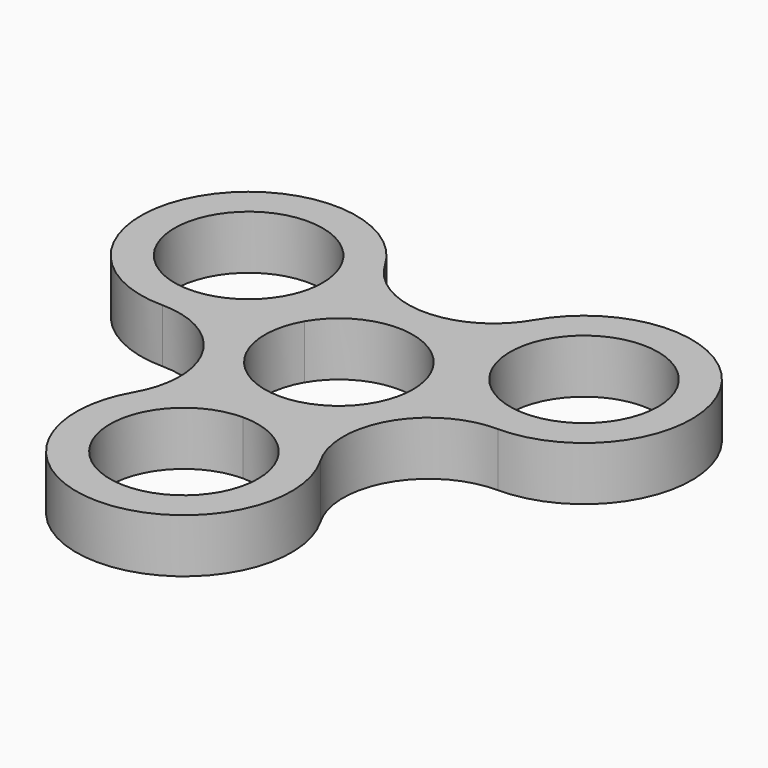
from build123d import *

# Parameters (mm, degrees)
F1_DEPTH = 8


with BuildPart() as f1:
    # F0 (on Top) → F1 (new body)
    with BuildSketch(Plane.XY):
        with BuildLine():
            ThreePointArc((11, -28.76845), (7.778175, -20.990275), (0, -17.76845))
            ThreePointArc((0, -17.76845), (-7.778175, -36.546625), (11, -28.76845))
        make_face()
        with BuildLine():
            ThreePointArc((-13.914208, 14.384225), (-35.539393, 17.231234), (-15.387929, 8.884225))
            ThreePointArc((-15.387929, 8.884225), (-14.289024, 11.537215), (-13.914208, 14.384225))
        make_face()
        with BuildLine():
            ThreePointArc((35.914208, 14.384225), (22.067199, 25.009409), (15.387929, 8.884225))
            ThreePointArc((15.387929, 8.884225), (27.761218, 3.759041), (35.914208, 14.384225))
        make_face()
        with BuildLine():
            ThreePointArc((24.914208, -1.615775), (38.770615, 22.384225), (11.057802, 22.384225))
            ThreePointArc((11.057802, 22.384225), (0, 16), (-11.057802, 22.384225))
            ThreePointArc((-11.057802, 22.384225), (-38.770615, 22.384225), (-24.914208, -1.615775))
            ThreePointArc((-24.914208, -1.615775), (-13.856406, -8), (-13.856406, -20.76845))
            ThreePointArc((-13.856406, -20.76845), (0, -44.76845), (13.856406, -20.76845))
            ThreePointArc((13.856406, -20.76845), (13.786503, -7.959641), (24.914208, -1.615775))
        make_face()
        with BuildLine():
            ThreePointArc((11, -28.76845), (-7.778175, -36.546625), (0, -17.76845))
            ThreePointArc((0, -17.76845), (7.778175, -20.990275), (11, -28.76845))
        make_face(mode=Mode.SUBTRACT)
        with BuildLine():
            ThreePointArc((-13.914208, 14.384225), (-14.289024, 11.537215), (-15.387929, 8.884225))
            ThreePointArc((-15.387929, 8.884225), (-35.539393, 17.231234), (-13.914208, 14.384225))
        make_face(mode=Mode.SUBTRACT)
        with BuildLine():
            ThreePointArc((11, 0), (7.778175, -7.778175), (0, -11))
            ThreePointArc((0, -11), (-9.526279, -5.5), (-9.526279, 5.5))
            ThreePointArc((-9.526279, 5.5), (0, 11), (9.526279, 5.5))
            ThreePointArc((9.526279, 5.5), (10.625184, 2.847009), (11, 0))
        make_face(mode=Mode.SUBTRACT)
        with BuildLine():
            ThreePointArc((35.914208, 14.384225), (27.761218, 3.759041), (15.387929, 8.884225))
            ThreePointArc((15.387929, 8.884225), (22.067199, 25.009409), (35.914208, 14.384225))
        make_face(mode=Mode.SUBTRACT)
    extrude(amount=F1_DEPTH)


solid = f1.part
